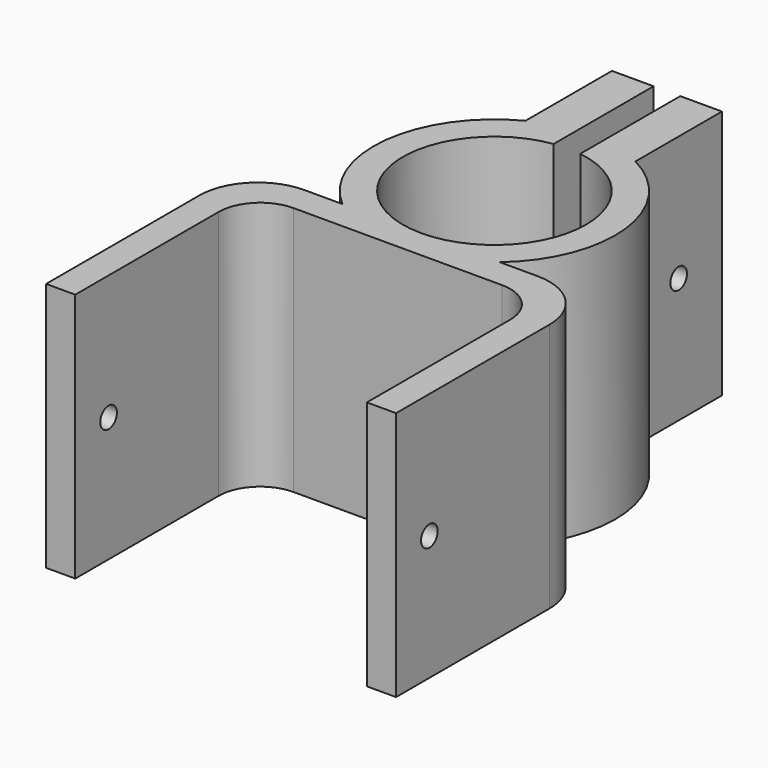
from build123d import *

# Parameters (mm, degrees)
F1_DEPTH = 38.1
F2_R     = 1.5875
F3_DEPTH = 35.053
F4_R     = 1.5875
F5_DEPTH = 3.175
F6_R     = 1.5875
F7_DEPTH = 53.341


with BuildPart() as f1:
    # F0 (on Top) → F1 (new body)
    with BuildSketch(Plane.XY):
        with BuildLine():
            Line((-11.9979717036, 0), (-17.78, 0))
            ThreePointArc((-17.78, 0), (-24.0661792847, -2.6038207153), (-26.67, -8.89))
            Line((-26.67, -8.89), (-26.67, -38.1))
            Line((-26.67, -38.1), (-22.225, -38.1))
            Line((-22.225, -38.1), (-22.225, -10.795))
            ThreePointArc((-22.225, -10.795), (-20.3651280605, -6.3048719395), (-15.875, -4.445))
            Line((-15.875, -4.445), (-2.57e-08, -4.445))
            ThreePointArc((-2.57e-08, -4.445), (-6.3974477453, -3.2980307895), (-11.9979717036, 0))
        make_face()
        with BuildLine():
            Line((9.2e-09, 0), (-11.9979717036, 0))
            ThreePointArc((-11.9979717036, 0), (-6.3974477453, -3.2980307895), (-2.57e-08, -4.445))
            ThreePointArc((-2.57e-08, -4.445), (6.3974477212, -3.2980307984), (11.9979717036, 0))
            Line((11.9979717036, 0), (9.2e-09, 0))
        make_face()
        with BuildLine():
            ThreePointArc((11.9979717036, 0), (6.3974477212, -3.2980307984), (-2.57e-08, -4.445))
            Line((-2.57e-08, -4.445), (15.875, -4.445))
            ThreePointArc((15.875, -4.445), (20.3651280605, -6.3048719395), (22.225, -10.795))
            Line((22.225, -10.795), (22.225, -38.1))
            Line((22.225, -38.1), (26.67, -38.1))
            Line((26.67, -38.1), (26.67, -8.89))
            ThreePointArc((26.67, -8.89), (24.0661792847, -2.6038207153), (17.78, 0))
            Line((17.78, 0), (11.9979717036, 0))
        make_face()
        with BuildLine():
            ThreePointArc((13.97, 13.97), (9.8782817364, 4.0917182701), (9.2e-09, 0))
            Line((9.2e-09, 0), (11.9979717036, 0))
            ThreePointArc((11.9979717036, 0), (16.7340203466, 6.2833370024), (18.415, 13.97))
            ThreePointArc((18.415, 13.97), (15.7077489635, 23.5813915486), (8.382, 30.3667771528))
            Line((8.382, 30.3667771528), (8.382, 27.7914281462))
            Line((8.382, 27.7914281462), (2.032, 27.7914281462))
            ThreePointArc((2.032, 27.7914281462), (10.5723209372, 23.1016444302), (13.97, 13.97))
        make_face()
        with BuildLine():
            ThreePointArc((-8.382, 30.3667771528), (-18.285816917, 16.1474123812), (-11.9979717036, 0))
            Line((-11.9979717036, 0), (9.2e-09, 0))
            ThreePointArc((9.2e-09, 0), (-13.9328075273, 12.9512878678), (-2.032, 27.7914281462))
            Line((-2.032, 27.7914281462), (-8.382, 27.7914281462))
            Line((-8.382, 27.7914281462), (-8.382, 30.3667771528))
        make_face()
        with BuildLine():
            Line((2.032, 32.2725462983), (2.032, 27.7914281462))
            Line((2.032, 27.7914281462), (8.382, 27.7914281462))
            Line((8.382, 27.7914281462), (8.382, 30.3667771528))
            ThreePointArc((8.382, 30.3667771528), (5.2934712627, 31.6077829387), (2.032, 32.2725462983))
        make_face()
        with BuildLine():
            Line((2.032, 46.8414281462), (2.032, 32.2725462983))
            ThreePointArc((2.032, 32.2725462983), (5.2934712627, 31.6077829387), (8.382, 30.3667771528))
            Line((8.382, 30.3667771528), (8.382, 46.8414281462))
            Line((8.382, 46.8414281462), (2.032, 46.8414281462))
        make_face()
        with BuildLine():
            ThreePointArc((-2.032, 32.2725462983), (-5.2934712627, 31.6077829387), (-8.382, 30.3667771528))
            Line((-8.382, 30.3667771528), (-8.382, 27.7914281462))
            Line((-8.382, 27.7914281462), (-2.032, 27.7914281462))
            Line((-2.032, 27.7914281462), (-2.032, 32.2725462983))
        make_face()
        with BuildLine():
            Line((-8.382, 46.8414281462), (-8.382, 30.3667771528))
            ThreePointArc((-8.382, 30.3667771528), (-5.2934712627, 31.6077829387), (-2.032, 32.2725462983))
            Line((-2.032, 32.2725462983), (-2.032, 46.8414281462))
            Line((-2.032, 46.8414281462), (-8.382, 46.8414281462))
        make_face()
    extrude(amount=F1_DEPTH)

    # F2 (on face) → F3 (cut, through all)
    with BuildSketch(Plane.YZ.offset(8.382)):
        with Locations((38.6041026495, 19.05)):
            Circle(F2_R)
    extrude(amount=-F3_DEPTH, mode=Mode.SUBTRACT)

    # F4 (on face) → F5 (cut)
    with BuildSketch(Plane(origin=(-8.382, 0, 0), x_dir=(0, -1, 0), z_dir=(-1, 0, 0))):
        Polygon((-44.1033639635, 22.225), (-44.1033639635, 15.875), (-38.6041026495, 12.7), (-33.1048413355, 15.875), (-33.1048413355, 22.225), (-38.6041026495, 25.4), align=None)
        with Locations((-38.6041026495, 19.05)):
            Circle(F4_R, mode=Mode.SUBTRACT)
    extrude(amount=-F5_DEPTH, mode=Mode.SUBTRACT)

    # F6 (on face) → F7 (cut, through all)
    with BuildSketch(Plane(origin=(-26.67, 0, 0), x_dir=(0, -1, 0), z_dir=(-1, 0, 0))):
        with Locations((31.75, 19.05)):
            Circle(F6_R)
    extrude(amount=-F7_DEPTH, mode=Mode.SUBTRACT)


solid = f1.part
